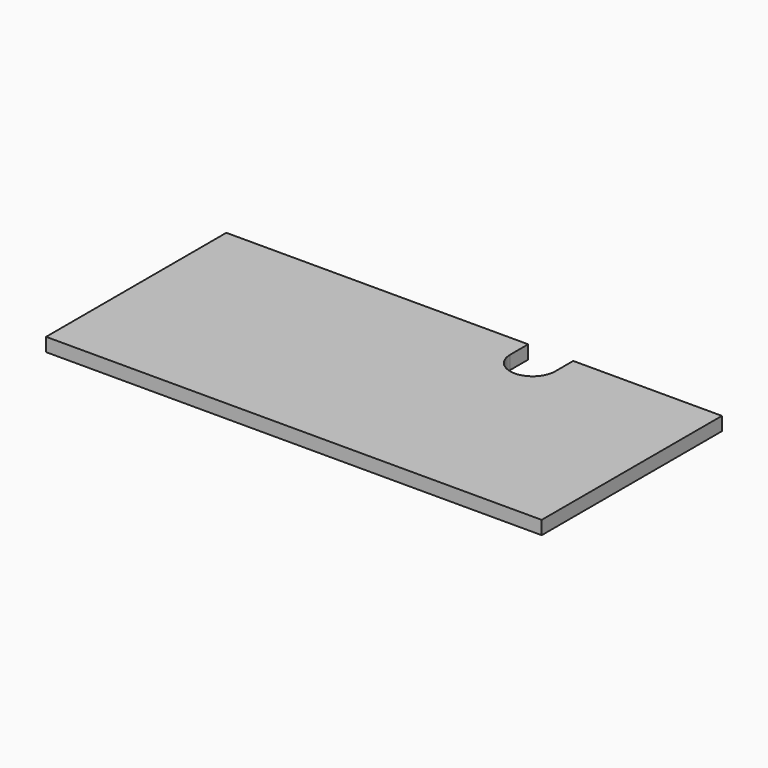
from build123d import *

# Parameters (mm, degrees)
F1_DEPTH = 30


with BuildPart() as f1:
    # F0 (on Top) → F1 (new body)
    with BuildSketch(Plane.XY):
        with BuildLine():
            Line((0, 500), (0, 0))
            Line((0, 0), (1100, 0))
            Line((1100, 0), (1100, 500))
            Line((1100, 500), (770, 500))
            Line((770, 500), (770, 450))
            ThreePointArc((770, 450), (720, 400), (670, 450))
            Line((670, 450), (670, 500))
            Line((670, 500), (0, 500))
        make_face()
    extrude(amount=F1_DEPTH)


solid = f1.part
